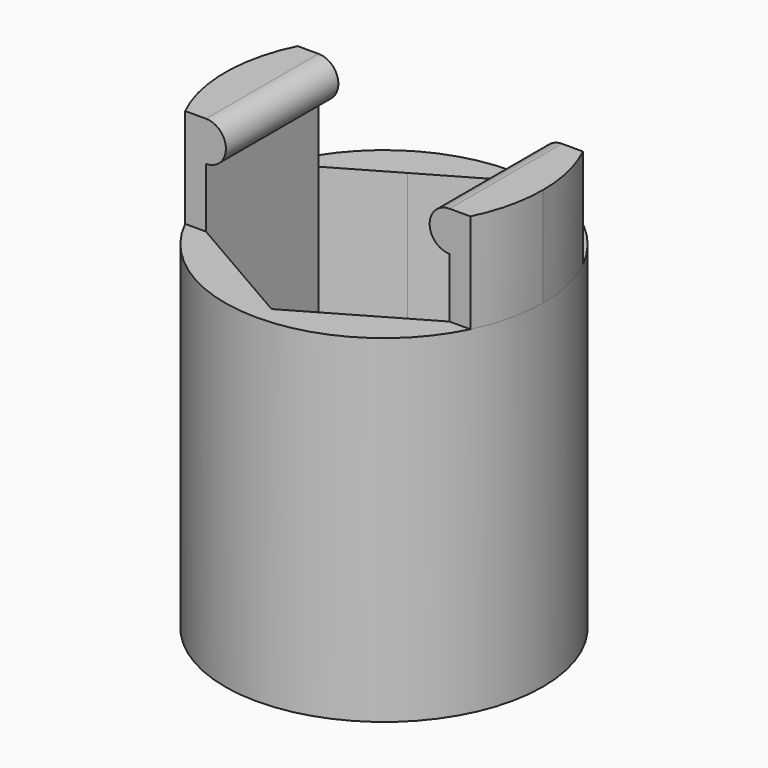
from build123d import *

# Parameters (mm, degrees)
F0_R      = 6.125
F1_DEPTH  = 2
F0_R_2    = 8
F2_DEPTH  = 10
F3_R      = 8
F4_DEPTH  = 7
F6_DEPTH  = 5
F8_DEPTH  = 7.0725407976
F10_DEPTH = 7.0725407976


with BuildPart() as f1:
    # F0 (on Top) → F1 (new body)
    with BuildSketch(Plane.XY):
        Circle(F0_R)
    extrude(amount=F1_DEPTH)

    # F0 (on Top) → F2 (join)
    with BuildSketch(Plane.XY):
        Circle(F0_R_2)
        Circle(F0_R, mode=Mode.SUBTRACT)
    extrude(amount=F2_DEPTH)

    # F3 (on face) → F4 (join)
    with BuildSketch(Plane.XY.offset(10)):
        Circle(F3_R)
        Polygon((3.0624998551, 5.3044056818), (6.125, 3.5362703988), (6.125, 0), (6.125, -3.5362703988), (3.0625000444, -5.3044055725), (0, -7.0725407976), (-3.0625000444, -5.3044055725), (-6.125, -3.5362703988), (-6.125, 0), (-6.125, 3.5362703988), (-3.0624999859, 5.3044056063), (0, 7.0725407976), align=None, mode=Mode.SUBTRACT)
    extrude(amount=F4_DEPTH)

    # F5 (on face) → F6 (join)
    with BuildSketch(Plane.XY.offset(17)):
        with BuildLine():
            Line((-6.125, -3.5362703988), (-6.125, 3.5362703988))
            Line((-6.125, 3.5362703988), (-7.1759871563, 3.5362703988))
            ThreePointArc((-7.1759871563, 3.5362703988), (-8, 0), (-7.1759871563, -3.5362703988))
            Line((-7.1759871563, -3.5362703988), (-6.125, -3.5362703988))
        make_face()
        with BuildLine():
            ThreePointArc((8, 0), (7.7912738769, 1.8155030639), (7.1759871563, 3.5362703988))
            Line((7.1759871563, 3.5362703988), (6.125, 3.5362703988))
            Line((6.125, 3.5362703988), (6.125, -3.5362703988))
            Line((6.125, -3.5362703988), (7.1759871563, -3.5362703988))
            ThreePointArc((7.1759871563, -3.5362703988), (7.7912738769, -1.8155030639), (8, 0))
        make_face()
    extrude(amount=F6_DEPTH)

    # F7 (on face) → F8 (join, through all)
    with BuildSketch(Plane(origin=(0, 3.5362703988, 0), x_dir=(-1, 0, 0), z_dir=(0, 1, 0))):
        with BuildLine():
            Line((6.125, 20), (6.125, 22))
            ThreePointArc((6.125, 22), (5.125, 21), (6.125, 20))
        make_face()
    extrude(amount=-F8_DEPTH)

    # F9 (on face) → F10 (join, through all)
    with BuildSketch(Plane(origin=(0, 3.5362703988, 0), x_dir=(-1, 0, 0), z_dir=(0, 1, 0))):
        with BuildLine():
            Line((-6.125, 22), (-6.125, 20))
            ThreePointArc((-6.125, 20), (-5.125, 21), (-6.125, 22))
        make_face()
    extrude(amount=-F10_DEPTH)


solid = f1.part
